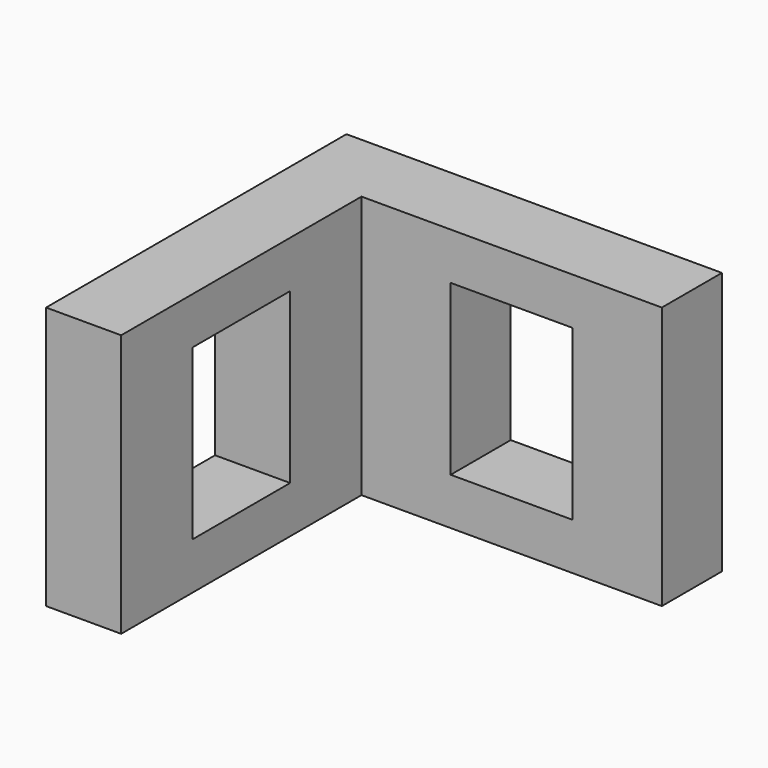
from build123d import *

# Parameters (mm, degrees)
F0_W     = 101.6
F0_H     = 71.12
F1_DEPTH = 101.6
F2_W     = 81.28
F2_H     = 71.12
F3_DEPTH = 81.28
F4_W     = 33.02
F4_H     = 45.72
F5_DEPTH = 20.321
F6_W     = 33.02
F6_H     = 45.72
F7_DEPTH = 20.321


with BuildPart() as f1:
    # F0 (on Front) → F1 (new body)
    with BuildSketch(Plane.XZ):
        Rectangle(F0_W, F0_H)
    extrude(amount=F1_DEPTH)

    # F2 (on face) → F3 (cut)
    with BuildSketch(Plane.XZ.offset(101.6)):
        with Locations((10.16, 0)):
            Rectangle(F2_W, F2_H)
    extrude(amount=-F3_DEPTH, mode=Mode.SUBTRACT)

    # F4 (on face) → F5 (cut, through all)
    with BuildSketch(Plane.XZ.offset(20.32)):
        with Locations((10.16, 0)):
            Rectangle(F4_W, F4_H)
    extrude(amount=-F5_DEPTH, mode=Mode.SUBTRACT)

    # F6 (on face) → F7 (cut, through all)
    with BuildSketch(Plane.YZ.offset(-30.48)):
        with Locations((-60.96, 0)):
            Rectangle(F6_W, F6_H)
    extrude(amount=-F7_DEPTH, mode=Mode.SUBTRACT)


solid = f1.part
